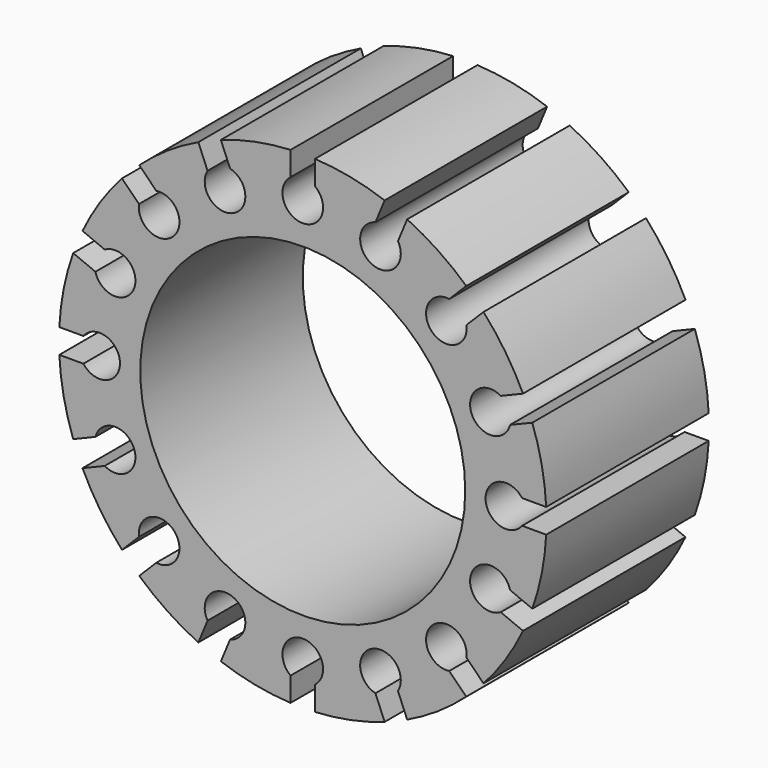
from build123d import *

# Parameters (mm, degrees)
F0_R     = 4
F1_DEPTH = 5


with BuildPart() as f1:
    # F0 (on Front) → F1 (new body)
    with BuildSketch(Plane.XZ):
        with BuildLine():
            Line((5.4, 0.3), (5.992495, 0.3))
            ThreePointArc((5.992495, 0.3), (5.884712, 1.170542), (5.651149, 2.016065))
            Line((5.651149, 2.016065), (5.103755, 1.789327))
            ThreePointArc((5.103755, 1.789327), (4.157458, 1.722075), (4.874144, 2.343654))
            Line((4.874144, 2.343654), (5.421539, 2.570393))
            ThreePointArc((5.421539, 2.570393), (4.988818, 3.333421), (4.449466, 4.025202))
            Line((4.449466, 4.025202), (4.030509, 3.606245))
            ThreePointArc((4.030509, 3.606245), (4.034276, 3.570978), (4.035534, 3.535534))
            ThreePointArc((4.035534, 3.535534), (3.157807, 3.207933), (3.606245, 4.030509))
            Line((3.606245, 4.030509), (4.025202, 4.449466))
            ThreePointArc((4.025202, 4.449466), (3.333421, 4.988818), (2.570393, 5.421539))
            Line((2.570393, 5.421539), (2.343654, 4.874144))
            ThreePointArc((2.343654, 4.874144), (2.395661, 4.751461), (2.413417, 4.619398))
            ThreePointArc((2.413417, 4.619398), (1.60686, 4.224401), (1.789327, 5.103755))
            Line((1.789327, 5.103755), (2.016065, 5.651149))
            ThreePointArc((2.016065, 5.651149), (1.170542, 5.884712), (0.3, 5.992495))
            Line((0.3, 5.992495), (0.3, 5.4))
            ThreePointArc((0.3, 5.4), (0.447214, 5.223607), (0.5, 5))
            ThreePointArc((0.5, 5), (-0.223607, 4.552786), (-0.3, 5.4))
            Line((-0.3, 5.4), (-0.3, 5.992495))
            ThreePointArc((-0.3, 5.992495), (-1.170542, 5.884712), (-2.016065, 5.651149))
            Line((-2.016065, 5.651149), (-1.789327, 5.103755))
            ThreePointArc((-1.789327, 5.103755), (-1.51842, 4.925955), (-1.413417, 4.619398))
            ThreePointArc((-1.413417, 4.619398), (-2.04548, 4.137154), (-2.343654, 4.874144))
            Line((-2.343654, 4.874144), (-2.570393, 5.421539))
            ThreePointArc((-2.570393, 5.421539), (-3.333421, 4.988818), (-4.025202, 4.449466))
            Line((-4.025202, 4.449466), (-3.606245, 4.030509))
            ThreePointArc((-3.606245, 4.030509), (-3.207933, 3.913261), (-3.035534, 3.535534))
            ThreePointArc((-3.035534, 3.535534), (-3.570978, 3.036792), (-4.030509, 3.606245))
            Line((-4.030509, 3.606245), (-4.449466, 4.025202))
            ThreePointArc((-4.449466, 4.025202), (-4.988818, 3.333421), (-5.421539, 2.570393))
            Line((-5.421539, 2.570393), (-4.874144, 2.343654))
            ThreePointArc((-4.874144, 2.343654), (-4.371782, 2.347798), (-4.119398, 1.913417))
            ThreePointArc((-4.119398, 1.913417), (-4.556861, 1.417343), (-5.103755, 1.789327))
            Line((-5.103755, 1.789327), (-5.651149, 2.016065))
            ThreePointArc((-5.651149, 2.016065), (-5.884712, 1.170542), (-5.992495, 0.3))
            Line((-5.992495, 0.3), (-5.4, 0.3))
            ThreePointArc((-5.4, 0.3), (-4.841886, 0.474342), (-4.5, 0))
            ThreePointArc((-4.5, 0), (-4.841886, -0.474342), (-5.4, -0.3))
            Line((-5.4, -0.3), (-5.992495, -0.3))
            ThreePointArc((-5.992495, -0.3), (-5.884712, -1.170542), (-5.651149, -2.016065))
            Line((-5.651149, -2.016065), (-5.103755, -1.789327))
            ThreePointArc((-5.103755, -1.789327), (-4.556861, -1.417343), (-4.119398, -1.913417))
            ThreePointArc((-4.119398, -1.913417), (-4.371782, -2.347798), (-4.874144, -2.343654))
            Line((-4.874144, -2.343654), (-5.421539, -2.570393))
            ThreePointArc((-5.421539, -2.570393), (-4.988818, -3.333421), (-4.449466, -4.025202))
            Line((-4.449466, -4.025202), (-4.030509, -3.606245))
            ThreePointArc((-4.030509, -3.606245), (-3.570978, -3.036792), (-3.035534, -3.535534))
            ThreePointArc((-3.035534, -3.535534), (-3.207933, -3.913261), (-3.606245, -4.030509))
            Line((-3.606245, -4.030509), (-4.025202, -4.449466))
            ThreePointArc((-4.025202, -4.449466), (-3.333421, -4.988818), (-2.570393, -5.421539))
            Line((-2.570393, -5.421539), (-2.343654, -4.874144))
            ThreePointArc((-2.343654, -4.874144), (-2.04548, -4.137154), (-1.413417, -4.619398))
            ThreePointArc((-1.413417, -4.619398), (-1.51842, -4.925955), (-1.789327, -5.103755))
            Line((-1.789327, -5.103755), (-2.016065, -5.651149))
            ThreePointArc((-2.016065, -5.651149), (-1.170542, -5.884712), (-0.3, -5.992495))
            Line((-0.3, -5.992495), (-0.3, -5.4))
            ThreePointArc((-0.3, -5.4), (-0.223607, -4.552786), (0.5, -5))
            ThreePointArc((0.5, -5), (0.447214, -5.223607), (0.3, -5.4))
            Line((0.3, -5.4), (0.3, -5.992495))
            ThreePointArc((0.3, -5.992495), (1.170542, -5.884712), (2.016065, -5.651149))
            Line((2.016065, -5.651149), (1.789327, -5.103755))
            ThreePointArc((1.789327, -5.103755), (1.60686, -4.224401), (2.413417, -4.619398))
            ThreePointArc((2.413417, -4.619398), (2.395661, -4.751461), (2.343654, -4.874144))
            Line((2.343654, -4.874144), (2.570393, -5.421539))
            ThreePointArc((2.570393, -5.421539), (3.333421, -4.988818), (4.025202, -4.449466))
            Line((4.025202, -4.449466), (3.606245, -4.030509))
            ThreePointArc((3.606245, -4.030509), (3.157807, -3.207933), (4.035534, -3.535534))
            ThreePointArc((4.035534, -3.535534), (4.034276, -3.570978), (4.030509, -3.606245))
            Line((4.030509, -3.606245), (4.449466, -4.025202))
            ThreePointArc((4.449466, -4.025202), (4.988818, -3.333421), (5.421539, -2.570393))
            Line((5.421539, -2.570393), (4.874144, -2.343654))
            ThreePointArc((4.874144, -2.343654), (4.157458, -1.722075), (5.103755, -1.789327))
            Line((5.103755, -1.789327), (5.651149, -2.016065))
            ThreePointArc((5.651149, -2.016065), (5.884712, -1.170542), (5.992495, -0.3))
            Line((5.992495, -0.3), (5.4, -0.3))
            ThreePointArc((5.4, -0.3), (4.5, 0), (5.4, 0.3))
        make_face()
        Circle(F0_R, mode=Mode.SUBTRACT)
    extrude(amount=F1_DEPTH)


solid = f1.part
